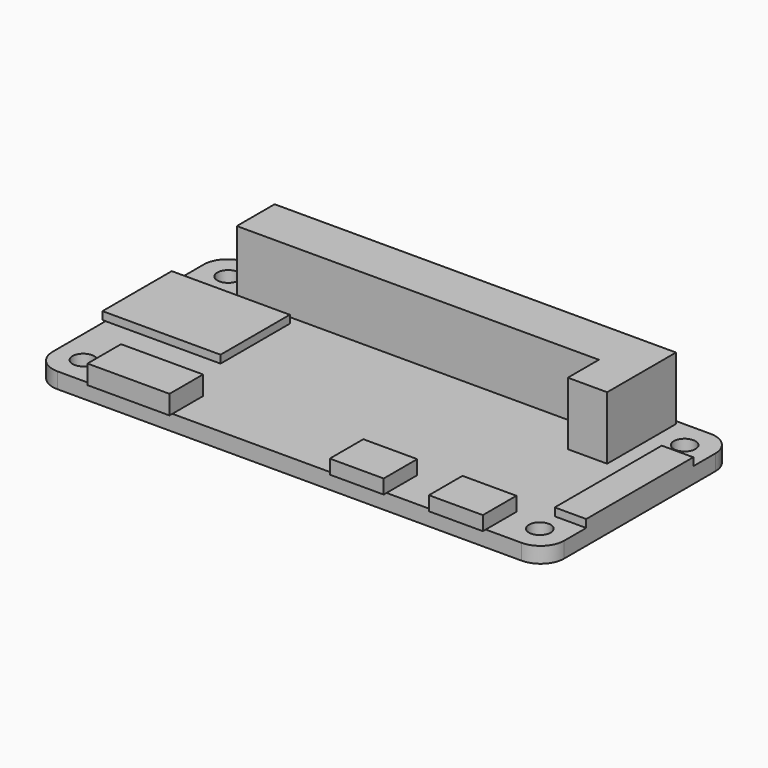
from build123d import *

# Parameters (mm, degrees)
F0_W      = 65
F0_H      = 30
F2_DEPTH  = 2
F3_R      = 3
F4_R      = 1.375
F5_DEPTH  = 2
F8_W      = 10.42
F8_H      = 4.8704799486
F8_H_2    = 0.4562667193
F9_DEPTH  = 2.42
F8_W_2    = 6.85
F10_DEPTH = 1.8
F8_W_3    = 14.6107960276
F8_H_3    = 11
F8_W_4    = 0.3892039724
F11_DEPTH = 1
F8_W_5    = 4
F8_H_4    = 17
F12_DEPTH = 1
F13_W     = 5
F13_H     = 4.9290289432
F15_DEPTH = 8


with BuildPart() as f2:
    # F0 (on Top) → F2 (new body)
    with BuildSketch(Plane.XY):
        with Locations((-7.9789588384, 18.2161135599)):
            Rectangle(F0_W, F0_H)
    extrude(amount=F2_DEPTH)

    # F3
    f3_edges = [f2.edges().sort_by_distance(p)[0] for p in [
        (-40.478959, 33.216114, 1),
        (-40.478959, 3.216114, 1),
        (24.521041, 3.216114, 1),
        (24.521041, 33.216114, 1),
    ]]
    fillet(f3_edges, radius=F3_R)

    # F4 (on face) → F5 (cut)
    with BuildSketch(Plane.XY.offset(2)):
        with Locations((21.0210420191, 29.7161135823)):
            Circle(F4_R)
        with Locations((-36.9789588384, 6.7161135599)):
            Circle(F4_R)
        with Locations((-36.9789588384, 29.7161135823)):
            Circle(F4_R)
        with Locations((21.0210411616, 6.7161135599)):
            Circle(F4_R)
    extrude(amount=-F5_DEPTH, mode=Mode.SUBTRACT)

    # F8 (on face) → F9 (join)
    with BuildSketch(Plane.XY.offset(2)):
        with Locations((-28.0789588384, 5.6513535342)):
            Rectangle(F8_W, F8_H)
        with Locations((-28.0789588384, 2.9879802003)):
            Rectangle(F8_W, F8_H_2)
    extrude(amount=F9_DEPTH)

    # F8 (on face) → F10 (join)
    with BuildSketch(Plane.XY.offset(2)):
        with Locations((0.9210411616, 5.6513535342)):
            Rectangle(F8_W_2, F8_H)
        with Locations((13.5210411616, 5.6513535342)):
            Rectangle(F8_W_2, F8_H)
        with Locations((0.9210411616, 2.9879802003)):
            Rectangle(F8_W_2, F8_H_2)
        with Locations((13.5210411616, 2.9879802003)):
            Rectangle(F8_W_2, F8_H_2)
    extrude(amount=F10_DEPTH)

    # F8 (on face) → F11 (join)
    with BuildSketch(Plane.XY.offset(2)):
        with Locations((-33.1735608246, 20.1161135599)):
            Rectangle(F8_W_3, F8_H_3)
        with Locations((-40.6735608246, 20.1161135599)):
            Rectangle(F8_W_4, F8_H_3)
    extrude(amount=F11_DEPTH)

    # F8 (on face) → F12 (join)
    with BuildSketch(Plane.XY.offset(2)):
        with Locations((22.5210411616, 18.2120301798)):
            Rectangle(F8_W_5, F8_H_4)
    extrude(amount=F12_DEPTH)

    # F13 (on face) → F15 (join)
    with BuildSketch(Plane.XY.offset(2)):
        Polygon((12.5210411616, 26.7161135823), (17.5210411616, 26.7161135823), (17.5210411616, 32.7161135823), (-33.4789588384, 32.7161135823), (-33.4789588384, 26.7161135823), align=None)
        with Locations((15.0210411616, 24.2515991107)):
            Rectangle(F13_W, F13_H)
    extrude(amount=F15_DEPTH)


solid = f2.part
